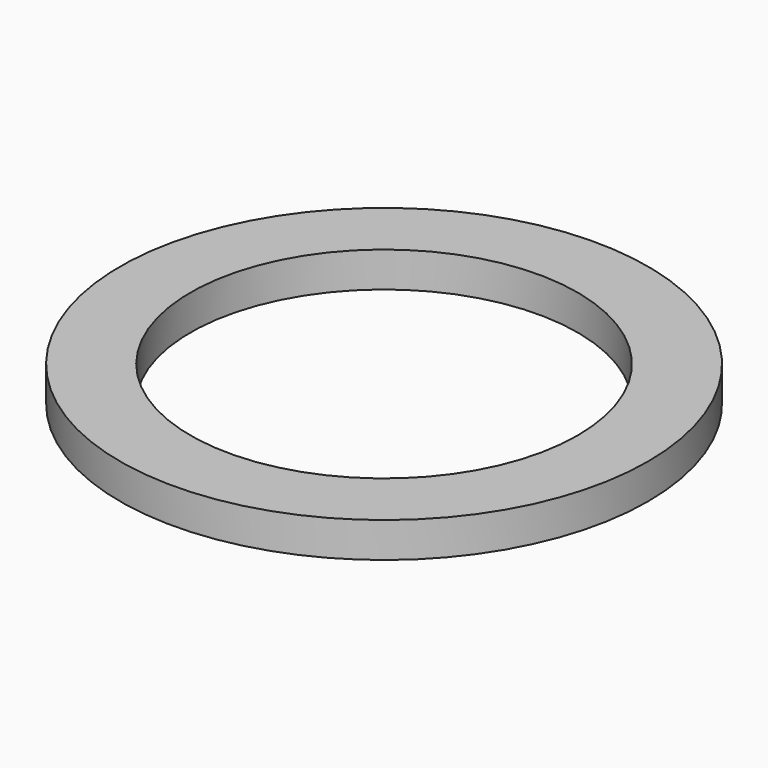
from build123d import *

# Parameters (mm, degrees)
SKETCH_R   = 15
SKETCH_R_2 = 11
PAD_DEPTH  = 2


with BuildPart() as part:
    # Sketch → Pad (new body)
    with BuildSketch(Plane.XY):
        Circle(SKETCH_R)
        Circle(SKETCH_R_2, mode=Mode.SUBTRACT)
    extrude(amount=PAD_DEPTH)


solid = part.part
